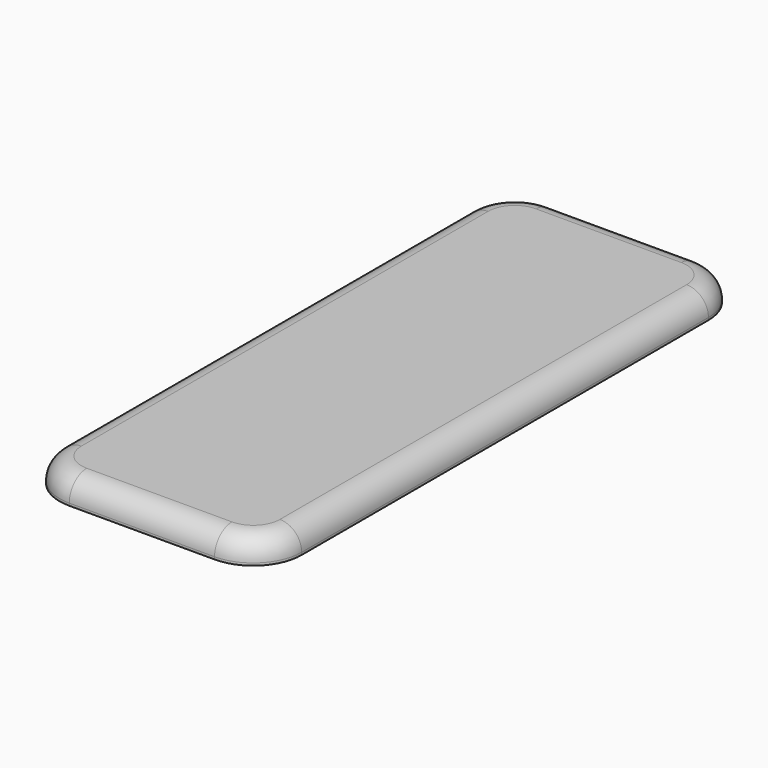
from build123d import *

# Parameters (mm, degrees)
SKETCH029_W  = 10
SKETCH029_H  = 25
PAD016_DEPTH = 1
FILLET023_R  = 2
FILLET024_R  = 0.9


with BuildPart() as part:
    # Sketch029 → Pad016 (new body)
    with BuildSketch(Plane.XY):
        Rectangle(SKETCH029_W, SKETCH029_H)
    extrude(amount=PAD016_DEPTH)

    # Fillet023
    fillet023_edges = [part.edges().sort_by_distance(p)[0] for p in [
        (-5, -12.5, 0.5),
        (-5, 12.5, 0.5),
        (5, -12.5, 0.5),
        (5, 12.5, 0.5),
    ]]
    fillet(fillet023_edges, radius=FILLET023_R)

    # Fillet024
    fillet024_edges = [part.edges().sort_by_distance(p)[0] for p in [
        (0, -12.5, 1),
        (5, 0, 1),
        (-5, 0, 1),
        (0, 12.5, 1),
    ]]
    fillet(fillet024_edges, radius=FILLET024_R)


with BuildPart() as part_1:
    # Body008 placement: moved
    add(part.part.moved(Location((0, -74, -23))))


solid = part_1.part
